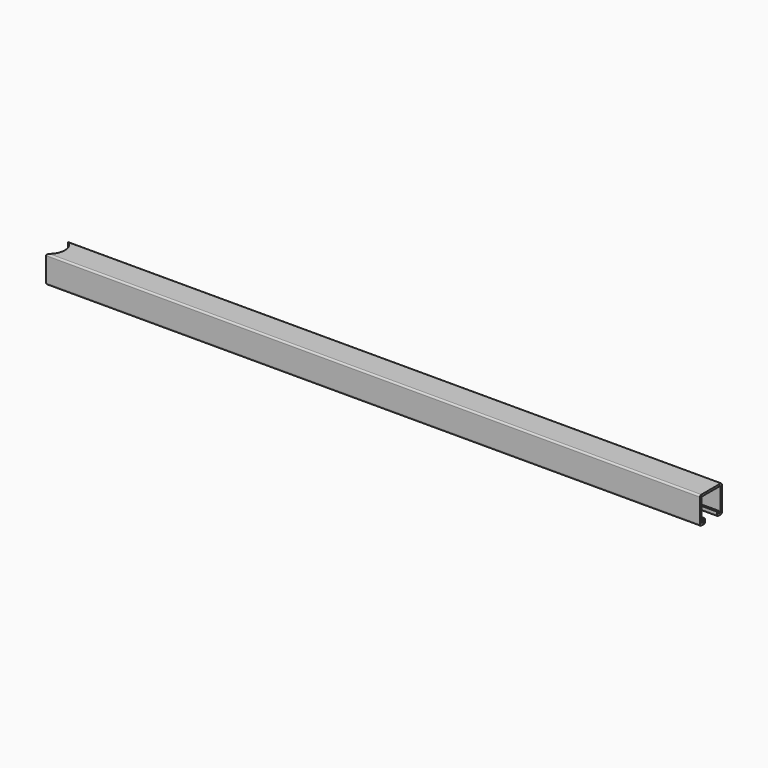
from build123d import *

# Parameters (mm, degrees)
F1_DEPTH = 1000
F2_R     = 24.15
F3_DEPTH = 41.301


with BuildPart() as f1:
    # F0 (on Right) → F1 (new body)
    with BuildSketch(Plane.YZ):
        with BuildLine():
            Line((0, 38.8), (0, 2.5))
            ThreePointArc((0, 2.5), (0.732233, 0.732233), (2.5, 0))
            Line((2.5, 0), (7.05, 0))
            ThreePointArc((7.05, 0), (8.817767, 0.732233), (9.55, 2.5))
            Line((9.55, 2.5), (9.55, 3))
            Line((9.55, 3), (9.55, 6.5))
            ThreePointArc((9.55, 6.5), (9.403553, 6.853553), (9.05, 7))
            Line((9.05, 7), (7.05, 7))
            ThreePointArc((7.05, 7), (6.696447, 6.853553), (6.55, 6.5))
            Line((6.55, 6.5), (6.55, 3))
            Line((6.55, 3), (3, 3))
            Line((3, 3), (3, 38.3))
            Line((3, 38.3), (38.3, 38.3))
            Line((38.3, 38.3), (38.3, 3))
            Line((38.3, 3), (34.75, 3))
            Line((34.75, 3), (34.75, 6.5))
            ThreePointArc((34.75, 6.5), (34.603553, 6.853553), (34.25, 7))
            Line((34.25, 7), (32.25, 7))
            ThreePointArc((32.25, 7), (31.896447, 6.853553), (31.75, 6.5))
            Line((31.75, 6.5), (31.75, 3))
            Line((31.75, 3), (31.75, 2.5))
            ThreePointArc((31.75, 2.5), (32.482233, 0.732233), (34.25, 0))
            Line((34.25, 0), (38.8, 0))
            ThreePointArc((38.8, 0), (40.567767, 0.732233), (41.3, 2.5))
            Line((41.3, 2.5), (41.3, 38.8))
            ThreePointArc((41.3, 38.8), (40.567767, 40.567767), (38.8, 41.3))
            Line((38.8, 41.3), (2.5, 41.3))
            ThreePointArc((2.5, 41.3), (0.732233, 40.567767), (0, 38.8))
        make_face()
    extrude(amount=F1_DEPTH)

    # F2 (on face) → F3 (cut, through all)
    with BuildSketch(Plane.XY.offset(41.3)):
        with Locations((0, 20.65)):
            Circle(F2_R)
    extrude(amount=-F3_DEPTH, mode=Mode.SUBTRACT)


solid = f1.part
